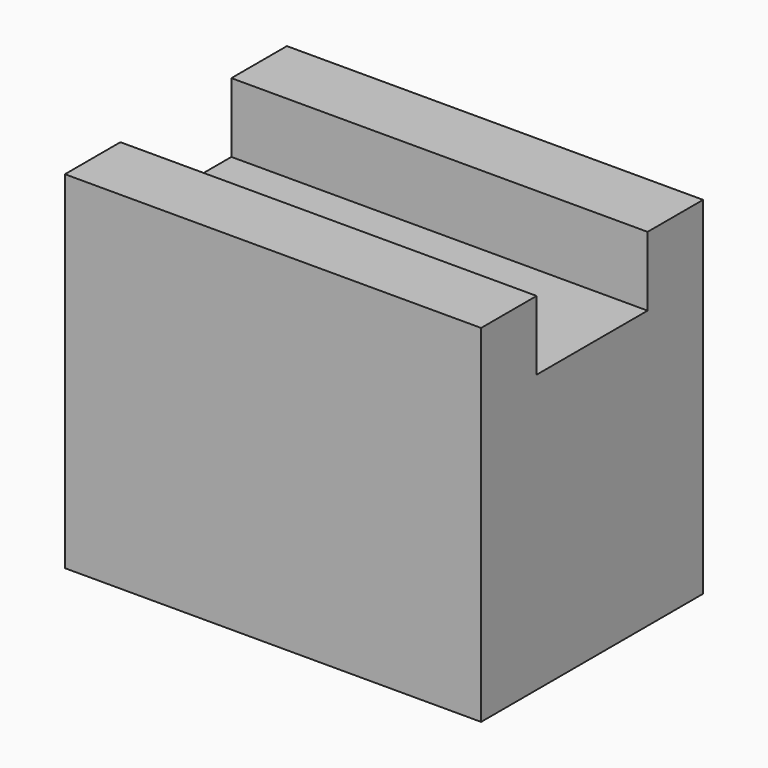
from build123d import *

# Parameters (mm, degrees)
F0_W     = 25.4
F0_H     = 31.75
F1_DEPTH = 38.1
F2_W     = 12.7
F2_H     = 6.35
F3_DEPTH = 38.101
F4_DEPTH = 38.101


with BuildPart() as f1:
    # F0 (on Right) → F1 (new body)
    with BuildSketch(Plane.YZ):
        with Locations((-12.7, 15.875)):
            Rectangle(F0_W, F0_H)
    extrude(amount=F1_DEPTH)

    # F2 (on face) → F3 (cut, through all)
    with BuildSketch(Plane.YZ.offset(38.1)):
        with Locations((-12.7, 28.575)):
            Rectangle(F2_W, F2_H)
    extrude(amount=-F3_DEPTH, mode=Mode.SUBTRACT)

    # F2 (on face) → F4 (cut, through all)
    with BuildSketch(Plane.YZ.offset(38.1)):
        with Locations((-12.7, 28.575)):
            Rectangle(F2_W, F2_H)
    extrude(amount=-F4_DEPTH, mode=Mode.SUBTRACT)


solid = f1.part
